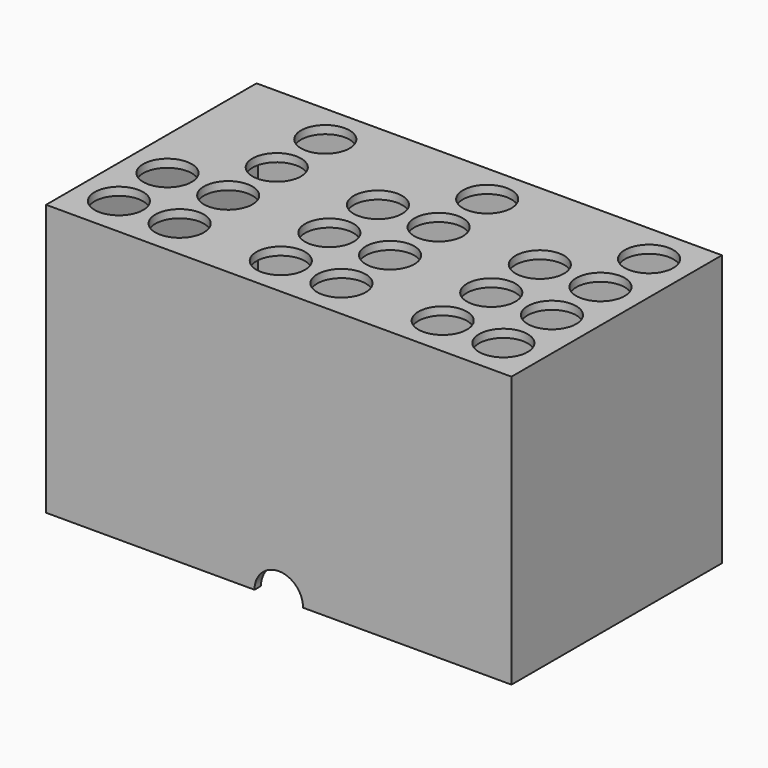
from build123d import *

# Parameters (mm, degrees)
SKETCH_W      = 115
SKETCH_H      = 65
SKETCH_R      = 6
PAD_DEPTH     = 2
SKETCH001_W   = 115
SKETCH001_H   = 65
SKETCH001_W_2 = 111
SKETCH001_H_2 = 61
PAD001_DEPTH  = 65
SKETCH002_R   = 6
POCKET_DEPTH  = 2


with BuildPart() as part:
    # Sketch → Pad (new body)
    with BuildSketch(Plane.XY):
        with Locations((-57.5, 32.5)):
            Rectangle(SKETCH_W, SKETCH_H)
        with Locations((-10, 25)):
            Circle(SKETCH_R, mode=Mode.SUBTRACT)
        with Locations((-10, 10)):
            Circle(SKETCH_R, mode=Mode.SUBTRACT)
        with Locations((-10, 40)):
            Circle(SKETCH_R, mode=Mode.SUBTRACT)
        with Locations((-10, 55)):
            Circle(SKETCH_R, mode=Mode.SUBTRACT)
        with Locations((-25, 25)):
            Circle(SKETCH_R, mode=Mode.SUBTRACT)
        with Locations((-25, 40)):
            Circle(SKETCH_R, mode=Mode.SUBTRACT)
        with Locations((-25, 10)):
            Circle(SKETCH_R, mode=Mode.SUBTRACT)
        with Locations((-50, 10)):
            Circle(SKETCH_R, mode=Mode.SUBTRACT)
        with Locations((-50, 25)):
            Circle(SKETCH_R, mode=Mode.SUBTRACT)
        with Locations((-50, 40)):
            Circle(SKETCH_R, mode=Mode.SUBTRACT)
        with Locations((-50, 55)):
            Circle(SKETCH_R, mode=Mode.SUBTRACT)
        with Locations((-65, 40)):
            Circle(SKETCH_R, mode=Mode.SUBTRACT)
        with Locations((-65, 25)):
            Circle(SKETCH_R, mode=Mode.SUBTRACT)
        with Locations((-65, 10)):
            Circle(SKETCH_R, mode=Mode.SUBTRACT)
        with Locations((-90, 55)):
            Circle(SKETCH_R, mode=Mode.SUBTRACT)
        with Locations((-90, 40)):
            Circle(SKETCH_R, mode=Mode.SUBTRACT)
        with Locations((-90, 25)):
            Circle(SKETCH_R, mode=Mode.SUBTRACT)
        with Locations((-90, 10)):
            Circle(SKETCH_R, mode=Mode.SUBTRACT)
        with Locations((-105, 10)):
            Circle(SKETCH_R, mode=Mode.SUBTRACT)
        with Locations((-105, 25)):
            Circle(SKETCH_R, mode=Mode.SUBTRACT)
    extrude(amount=PAD_DEPTH)

    # Sketch001 (on Face25 of Pad) → Pad001 (join)
    with BuildSketch(Plane(origin=(0, 0, 0), x_dir=(1, 0, 0), z_dir=(0, 0, -1))):
        with Locations((-57.5, -32.5)):
            Rectangle(SKETCH001_W, SKETCH001_H)
        with Locations((-57.5, -32.5)):
            Rectangle(SKETCH001_W_2, SKETCH001_H_2, mode=Mode.SUBTRACT)
    extrude(amount=PAD001_DEPTH)

    # Sketch002 (on Face28 of Pad001) → Pocket (cut)
    with BuildSketch(Plane.XZ):
        with Locations((-57.5, -65)):
            Circle(SKETCH002_R)
    extrude(amount=-POCKET_DEPTH, mode=Mode.SUBTRACT)


solid = part.part
